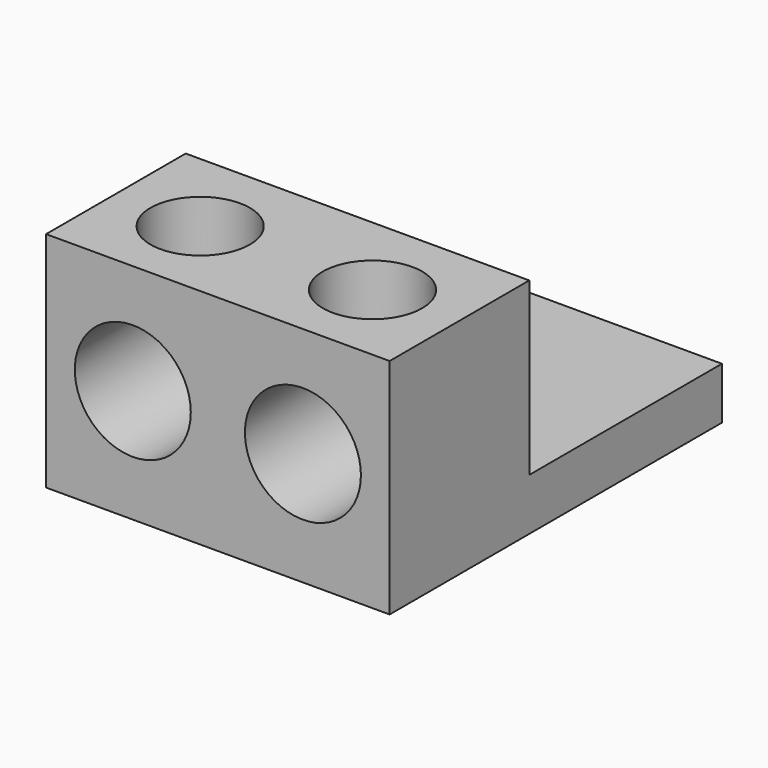
from build123d import *

# Parameters (mm, degrees)
F0_W     = 31.1
F0_H     = 15.8
F1_DEPTH = 20.2
F0_H_2   = 21.8
F2_DEPTH = 4.7
F3_R     = 5.25
F4_DEPTH = 37.601
F5_R     = 3.35
F6_DEPTH = 4.701
F7_R     = 4.5
F8_DEPTH = 9


with BuildPart() as f1:
    # F0 (on Top) → F1 (new body)
    with BuildSketch(Plane.XY):
        with Locations((15.55, 7.9)):
            Rectangle(F0_W, F0_H)
    extrude(amount=F1_DEPTH)

    # F0 (on Top) → F2 (join)
    with BuildSketch(Plane.XY):
        with Locations((15.55, 7.9)):
            Rectangle(F0_W, F0_H)
        with Locations((15.55, 26.7)):
            Rectangle(F0_W, F0_H_2)
    extrude(amount=F2_DEPTH)

    # F3 (on face) → F4 (cut, through all)
    with BuildSketch(Plane.XZ):
        with Locations((7.85, 10.25)):
            Circle(F3_R)
        with Locations((23.25, 10.25)):
            Circle(F3_R)
    extrude(amount=-F4_DEPTH, mode=Mode.SUBTRACT)

    # F5 (on face) → F6 (cut, through all)
    with BuildSketch(Plane.XY.offset(4.7)):
        with Locations((15.55, 26.35)):
            Circle(F5_R)
    extrude(amount=-F6_DEPTH, mode=Mode.SUBTRACT)

    # F7 (on face) → F8 (cut)
    with BuildSketch(Plane.XY.offset(20.2)):
        with Locations((7.75, 7.75)):
            Circle(F7_R)
        with Locations((23.35, 7.75)):
            Circle(F7_R)
    extrude(amount=-F8_DEPTH, mode=Mode.SUBTRACT)


solid = f1.part
